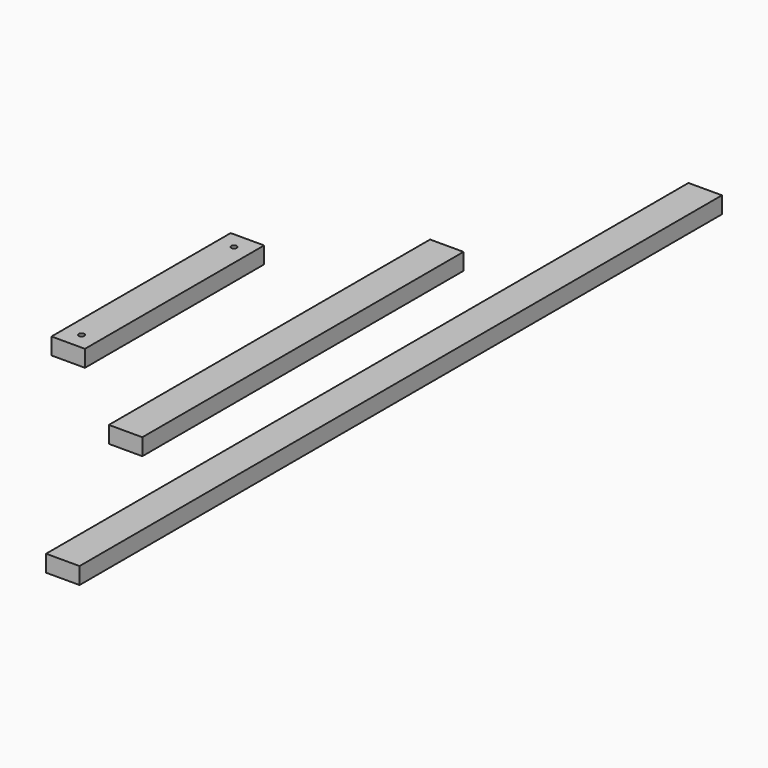
from build123d import *

# Parameters (mm, degrees)
F0_W     = 38.1
F0_H     = 914.4
F1_DEPTH = 19.05
F2_W     = 38.1
F2_H     = 457.2
F3_DEPTH = 19.05
F5_W     = 38.1
F5_H     = 255.0414
F6_DEPTH = 19.05
F7_R     = 3.175
F8_DEPTH = 19.051


with BuildPart() as f1:
    # F0 (on Top) → F1 (new body)
    with BuildSketch(Plane.XY):
        Rectangle(F0_W, F0_H)
    extrude(amount=F1_DEPTH)


with BuildPart() as f3:
    # F2 (on Top) → F3 (new body)
    with BuildSketch(Plane.XY):
        with Locations((-111.377722, 0)):
            Rectangle(F2_W, F2_H)
    extrude(amount=F3_DEPTH)


with BuildPart() as f6:
    # F5 (on Top) → F6 (new body)
    with BuildSketch(Plane.XY):
        with Locations((-257.582774, 0)):
            Rectangle(F5_W, F5_H)
    extrude(amount=F6_DEPTH)

    # F7 (on face) → F8 (cut, through all)
    with BuildSketch(Plane.XY.offset(19.05)):
        with Locations((-257.582774, 108.4707)):
            Circle(F7_R)
        with Locations((-257.582774, -108.4707)):
            Circle(F7_R)
    extrude(amount=-F8_DEPTH, mode=Mode.SUBTRACT)


solid = Compound([f1.part, f3.part, f6.part])
